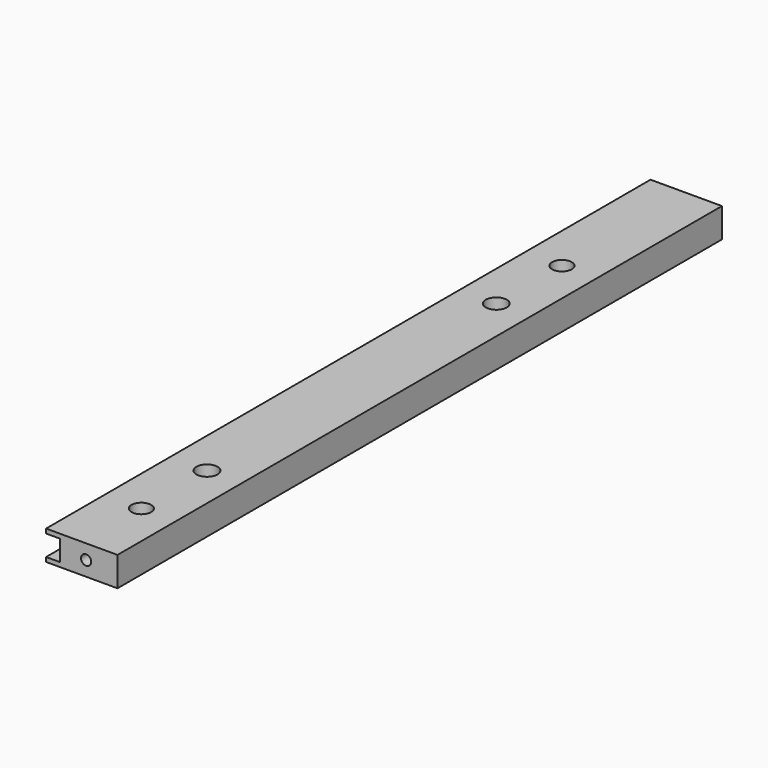
from build123d import *

# Parameters (mm, degrees)
F0_W     = 23.114
F0_H     = 244.602
F1_DEPTH = 9.525
F2_W     = 244.602
F2_H     = 6.6802
F3_DEPTH = 4.572
F4_R     = 3.175
F5_DEPTH = 9.526
F8_D     = 3.3
F8_DEPTH = 10.16
F8_TIP   = 0.9914200214
F9_D     = 3.3
F9_DEPTH = 10.16
F9_TIP   = 0.9914200214
F11_D    = 6.8


with BuildPart() as f1:
    # F0 (on Top) → F1 (new body)
    with BuildSketch(Plane.XY):
        with Locations((-11.557, 122.301)):
            Rectangle(F0_W, F0_H)
    extrude(amount=F1_DEPTH)

    # F2 (on face) → F3 (cut)
    with BuildSketch(Plane(origin=(-23.114, 0, 0), x_dir=(0, -1, 0), z_dir=(-1, 0, 0))):
        with Locations((-122.301, 4.7625)):
            Rectangle(F2_W, F2_H)
    extrude(amount=-F3_DEPTH, mode=Mode.SUBTRACT)

    # F4 (on face) → F5 (cut, through all)
    with BuildSketch(Plane.XY.offset(9.525)):
        with Locations((-11.176, 23.622)):
            Circle(F4_R)
        with Locations((-11.176, 193.8274)):
            Circle(F4_R)
    extrude(amount=-F5_DEPTH, mode=Mode.SUBTRACT)

    # F8
    with Locations(Plane(origin=(0, 244.602, 0), x_dir=(-1, 0, 0), z_dir=(0, 1, 0))):
        with Locations((10.16, 4.7752)):
            Hole(F8_D / 2, depth=F8_DEPTH)
            with Locations((0, 0, -(F8_DEPTH + F8_TIP / 2))):  # 118° drill point
                Cone(0, F8_D / 2, F8_TIP, mode=Mode.SUBTRACT)

    # F9
    with Locations(Plane.XZ):
        with Locations((-10.16, 4.7752)):
            Hole(F9_D / 2, depth=F9_DEPTH)
            with Locations((0, 0, -(F9_DEPTH + F9_TIP / 2))):  # 118° drill point
                Cone(0, F9_D / 2, F9_TIP, mode=Mode.SUBTRACT)

    # F11 (through all)
    with Locations(Plane.XY.offset(9.525)):
        with Locations((-11.176, 167.2717), (-11.176, 50.1777)):
            Hole(F11_D / 2)


solid = f1.part
